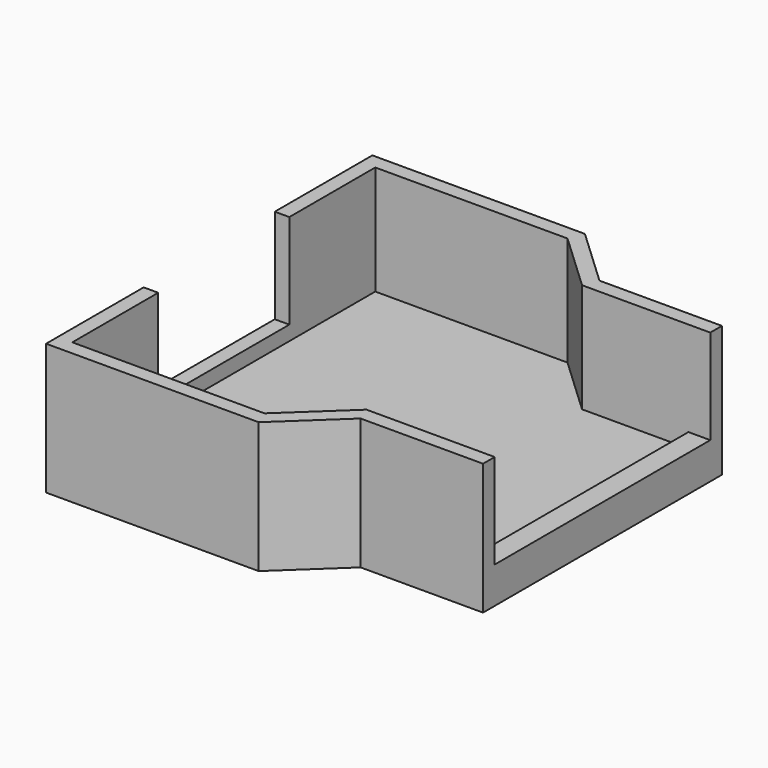
from build123d import *

# Parameters (mm, degrees)
F0_W     = 0.8
F0_H     = 9
F0_W_2   = 1.2
F0_H_2   = 14.8
F1_DEPTH = 1.2
F2_DEPTH = 2
F3_DEPTH = 2
F4_DEPTH = 7.2


with BuildPart() as f1:
    # F0 (on Top) → F1 (new body)
    with BuildSketch(Plane.XY):
        Polygon((14.2, -7.4), (14.2, 7.4), (8.358179, 7.4), (5.158179, 10.4), (-5.4, 10.4), (-5.4, 4.5), (-5.4, -4.5), (-5.4, -10.4), (5.158179, -10.4), (8.358179, -7.4), align=None)
        Polygon((15.4, 8.2), (8.674537, 8.2), (5.474537, 11.2), (-6.2, 11.2), (-6.2, 4.5), (-5.4, 4.5), (-5.4, 10.4), (5.158179, 10.4), (8.358179, 7.4), (14.2, 7.4), (15.4, 7.4), align=None)
        with Locations((-5.8, 0)):
            Rectangle(F0_W, F0_H)
        Polygon((15.4, -8.2), (15.4, -7.4), (14.2, -7.4), (8.358179, -7.4), (5.158179, -10.4), (-5.4, -10.4), (-5.4, -4.5), (-6.2, -4.5), (-6.2, -11.2), (5.474537, -11.2), (8.674537, -8.2), align=None)
        with Locations((14.8, 0)):
            Rectangle(F0_W_2, F0_H_2)
    extrude(amount=F1_DEPTH)

    # F0 (on Top) → F2 (join)
    with BuildSketch(Plane.XY):
        with Locations((-5.8, 0)):
            Rectangle(F0_W, F0_H)
    extrude(amount=F2_DEPTH)

    # F0 (on Top) → F3 (join)
    with BuildSketch(Plane.XY):
        with Locations((14.8, 0)):
            Rectangle(F0_W_2, F0_H_2)
    extrude(amount=F3_DEPTH)

    # F0 (on Top) → F4 (join)
    with BuildSketch(Plane.XY):
        Polygon((15.4, 8.2), (8.674537, 8.2), (5.474537, 11.2), (-6.2, 11.2), (-6.2, 4.5), (-5.4, 4.5), (-5.4, 10.4), (5.158179, 10.4), (8.358179, 7.4), (14.2, 7.4), (15.4, 7.4), align=None)
        Polygon((15.4, -8.2), (15.4, -7.4), (14.2, -7.4), (8.358179, -7.4), (5.158179, -10.4), (-5.4, -10.4), (-5.4, -4.5), (-6.2, -4.5), (-6.2, -11.2), (5.474537, -11.2), (8.674537, -8.2), align=None)
    extrude(amount=F4_DEPTH)


solid = f1.part
